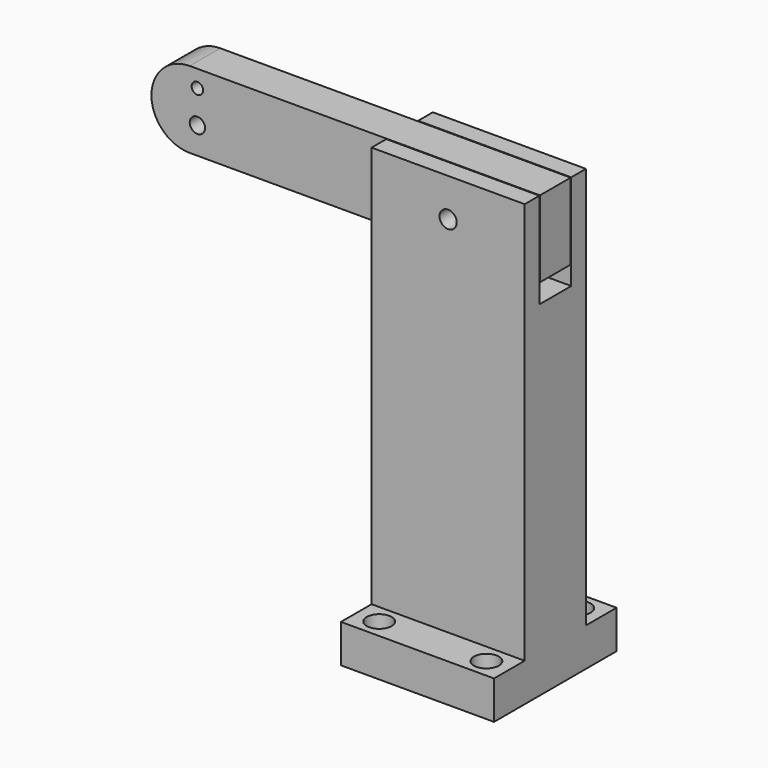
from build123d import *

# Parameters (mm, degrees)
F0_W           = 40
F0_H           = 40
F1_DEPTH       = 115
F2_W           = 40
F2_H           = 10
F3_DEPTH       = 105
F5_D           = 3
F5_DEPTH       = 10.7
F5_CBORE_D     = 6.5
F5_CBORE_DEPTH = 5
F5_TIP         = 0.9012909285
F7_DEPTH       = 25
F8_R           = 2.25
F9_DEPTH       = 30.001
F11_W          = 101.5
F11_H          = 10
F12_DEPTH      = 10
F13_R          = 2
F13_R_2        = 1.5
F14_DEPTH      = 25.001


with BuildPart() as f1:
    # F0 (on Top) → F1 (new body)
    with BuildSketch(Plane.XY):
        with Locations((71.5, 20)):
            Rectangle(F0_W, F0_H)
    extrude(amount=F1_DEPTH)

    # F2 (on face) → F3 (cut)
    with BuildSketch(Plane.XY.offset(115)):
        with Locations((71.5, 5)):
            Rectangle(F2_W, F2_H)
        with Locations((71.5, 35)):
            Rectangle(F2_W, F2_H)
    extrude(amount=-F3_DEPTH, mode=Mode.SUBTRACT)

    # F5
    with Locations(Plane.XY.offset(10)):
        with Locations((57.5, 5), (85.5, 5), (85.5, 35), (57.5, 35)):
            CounterBoreHole(F5_D / 2, F5_CBORE_D / 2, F5_CBORE_DEPTH, depth=F5_DEPTH)
            with Locations((0, 0, -(F5_DEPTH + F5_TIP / 2))):  # 118° drill point
                Cone(0, F5_D / 2, F5_TIP, mode=Mode.SUBTRACT)

    # F6 (on face) → F7 (cut)
    with BuildSketch(Plane.XY.offset(115)):
        Polygon((51.5, 25.2), (51.5, 20), (51.5, 14.8), (91.5, 14.8), (91.5, 20), (91.5, 25.2), align=None)
    extrude(amount=-F7_DEPTH, mode=Mode.SUBTRACT)

    # F8 (on face) → F9 (cut, through all)
    with BuildSketch(Plane.XZ.offset(-10)):
        with Locations((71.5, 105)):
            Circle(F8_R)
    extrude(amount=-F9_DEPTH, mode=Mode.SUBTRACT)


with BuildPart() as f12:
    # F11 (on offset) → F12 (new body, symmetric)
    with BuildSketch(Plane.XY.offset(105)):
        with Locations((40.75, 20)):
            Rectangle(F11_W, F11_H)
    extrude(amount=F12_DEPTH, both=True)

    # F13 (on face) → F14 (cut, through all)
    with BuildSketch(Plane.XZ.offset(-15)):
        with Locations((71.5, 104.9999967217)):
            Circle(F13_R)
        with Locations((2, 102)):
            Circle(F13_R)
        with Locations((2, 110.5)):
            Circle(F13_R_2)
        with BuildLine():
            ThreePointArc((0, 95), (-7.0710678119, 97.9289321881), (-10, 105))
            Line((-10, 105), (-10, 95))
            Line((-10, 95), (0, 95))
        make_face()
        with BuildLine():
            ThreePointArc((-10, 105), (-7.0710678119, 112.0710678119), (0, 115))
            Line((0, 115), (-10, 115))
            Line((-10, 115), (-10, 105))
        make_face()
    extrude(amount=-F14_DEPTH, mode=Mode.SUBTRACT)


solid = Compound([f1.part, f12.part])
